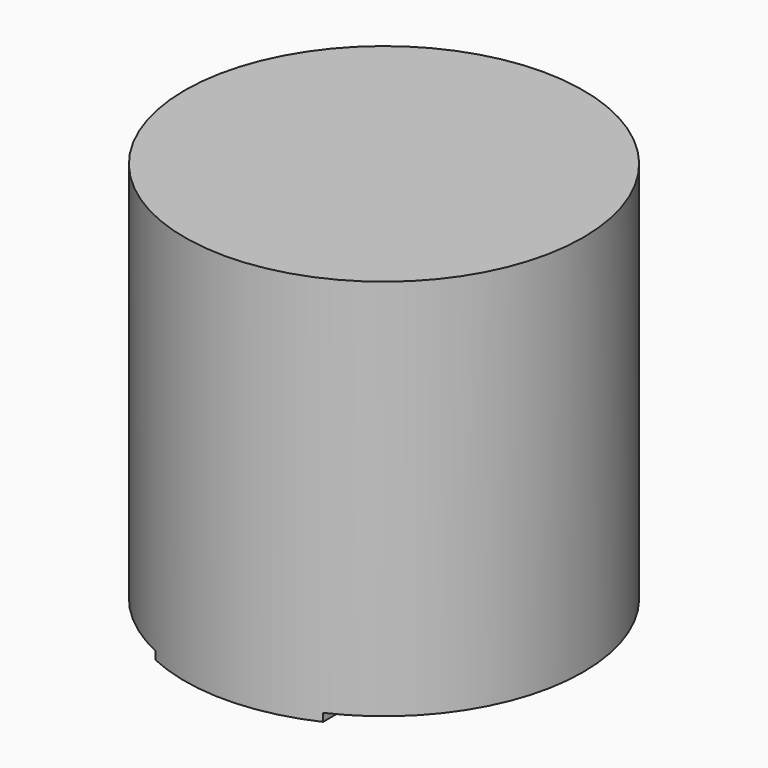
from build123d import *

# Parameters (mm, degrees)
BOX010_W          = 10
BOX010_H          = 10
BOX010_DEPTH      = 0.4
BOX009_W          = 10
BOX009_H          = 10
BOX009_DEPTH      = 0.4
BOX008_W          = 10
BOX008_H          = 10
BOX008_DEPTH      = 0.2
BOX007_W          = 10
BOX007_H          = 10
BOX007_DEPTH      = 0.2
CYLINDER007_R     = 5
CYLINDER007_DEPTH = 10


with BuildPart() as cube008:
    # Box010 → Box010 (new body)
    with BuildSketch(Plane(origin=(2.1, -5, 0), x_dir=(1, 0, 0), z_dir=(0, 0, 1))):
        with Locations((5, 5)):
            Rectangle(BOX010_W, BOX010_H)
    extrude(amount=BOX010_DEPTH)


with BuildPart() as cube007:
    # Box009 → Box009 (new body)
    with BuildSketch(Plane(origin=(-12.1, -5, 0), x_dir=(1, 0, 0), z_dir=(0, 0, 1))):
        with Locations((5, 5)):
            Rectangle(BOX009_W, BOX009_H)
    extrude(amount=BOX009_DEPTH)


with BuildPart() as cube006:
    # Box008 → Box008 (new body)
    with BuildSketch(Plane(origin=(-5, -12.1, 0), x_dir=(1, 0, 0), z_dir=(0, 0, 1))):
        with Locations((5, 5)):
            Rectangle(BOX008_W, BOX008_H)
    extrude(amount=BOX008_DEPTH)


with BuildPart() as fusion003:
    # Box007 → Box007 (new body)
    with BuildSketch(Plane(origin=(-5, 2.1, 0), x_dir=(1, 0, 0), z_dir=(0, 0, 1))):
        with Locations((5, 5)):
            Rectangle(BOX007_W, BOX007_H)
    extrude(amount=BOX007_DEPTH)

    # Fusion003: union Cube008, Cube007, Cube006
    add(cube008.part)
    add(cube007.part)
    add(cube006.part)


with BuildPart() as m4_slot:
    # Cylinder007 → Cylinder007 (new body)
    with BuildSketch(Plane.XY):
        Circle(CYLINDER007_R)
    extrude(amount=CYLINDER007_DEPTH)

    # Cut003: cut Fusion003
    add(fusion003.part, mode=Mode.SUBTRACT)


solid = m4_slot.part
